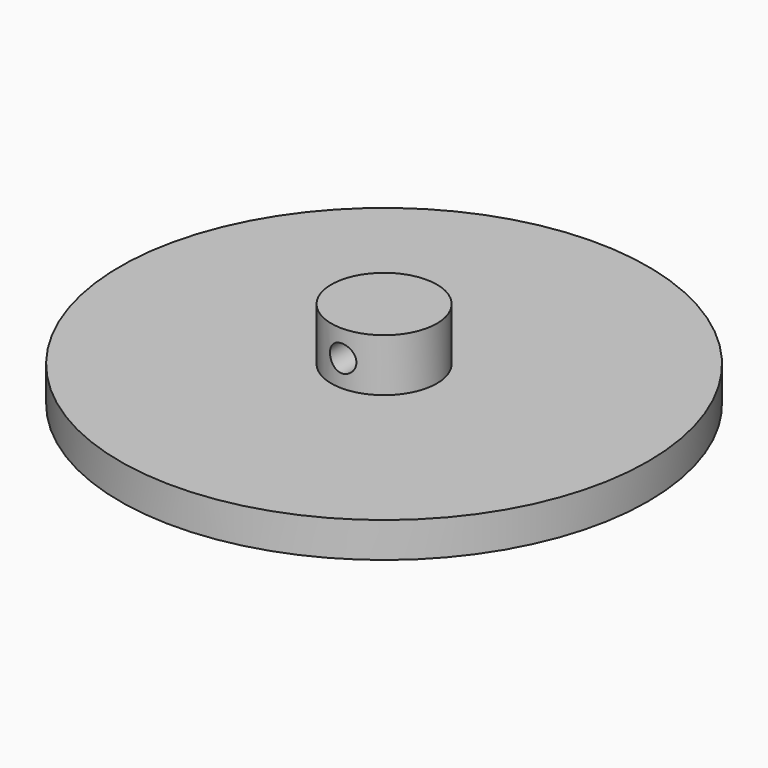
from build123d import *

# Parameters (mm, degrees)
F0_R     = 30
F0_R_2   = 6
F1_DEPTH = 4
F2_DEPTH = 6
F3_R     = 1.5
F4_DEPTH = 12.5


with BuildPart() as f1:
    # F0 (on Top) → F1 (new body)
    with BuildSketch(Plane.XY):
        Circle(F0_R)
        Circle(F0_R_2, mode=Mode.SUBTRACT)
        Circle(F0_R_2)
    extrude(amount=-F1_DEPTH)

    # F0 (on Top) → F2 (join)
    with BuildSketch(Plane.XY):
        Circle(F0_R_2)
    extrude(amount=F2_DEPTH)

    # F3 (on Front) → F4 (cut, symmetric)
    with BuildSketch(Plane.XZ):
        with Locations((0, 3)):
            Circle(F3_R)
    extrude(amount=F4_DEPTH, both=True, mode=Mode.SUBTRACT)


solid = f1.part
